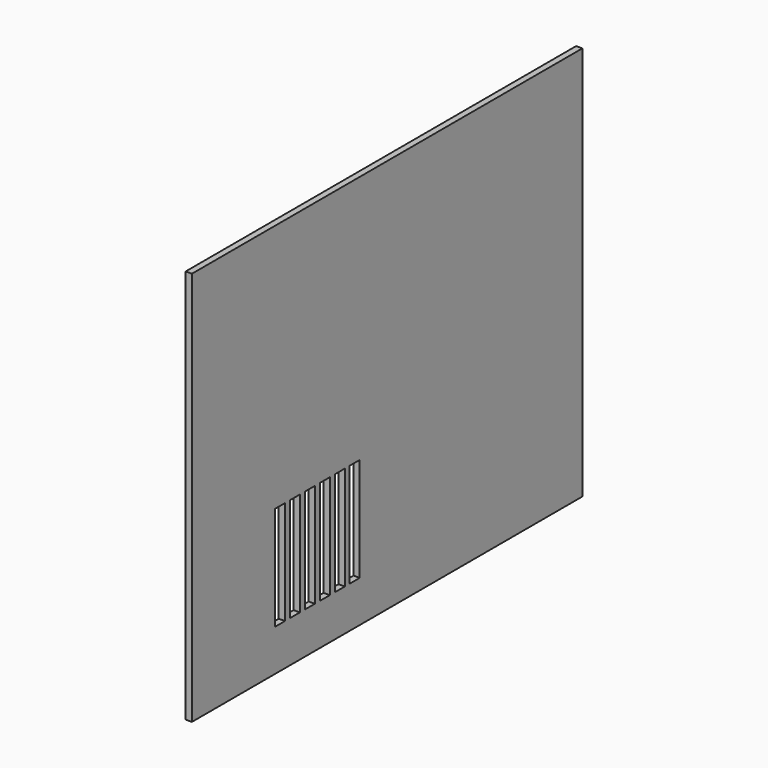
from build123d import *

# Parameters (mm, degrees)
F0_W     = 235
F0_H     = 190
F1_DEPTH = 3
F2_W     = 6
F2_H     = 50
F3_DEPTH = 25


with BuildPart() as f1:
    # F0 (on Right) → F1 (new body)
    with BuildSketch(Plane.YZ):
        Rectangle(F0_W, F0_H)
    extrude(amount=F1_DEPTH)

    # F2 (on face) → F3 (cut)
    with BuildSketch(Plane.YZ.offset(3)):
        with Locations((-64.5, -50)):
            Rectangle(F2_W, F2_H)
        with Locations((-55.5, -50)):
            Rectangle(F2_W, F2_H)
        with Locations((-46.5, -50)):
            Rectangle(F2_W, F2_H)
        with Locations((-37.5, -50)):
            Rectangle(F2_W, F2_H)
        with Locations((-28.5, -50)):
            Rectangle(F2_W, F2_H)
        with Locations((-19.5, -50)):
            Rectangle(F2_W, F2_H)
    extrude(amount=-F3_DEPTH, mode=Mode.SUBTRACT)


solid = f1.part
